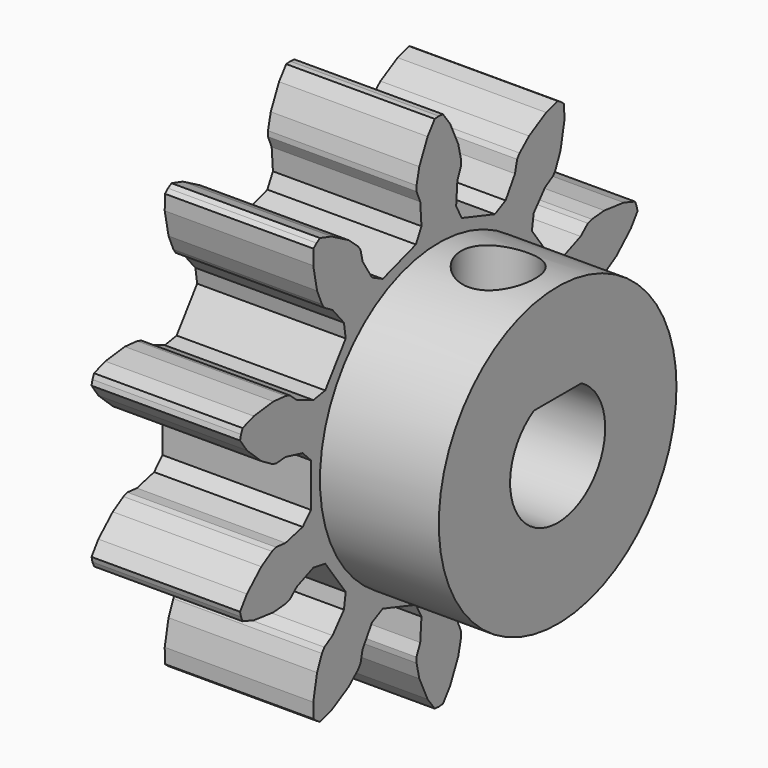
from build123d import *

# Parameters (mm, degrees)
F1_DEPTH = 6.35
F2_R     = 12.7
F3_DEPTH = 10.16
F4_R     = 3.175
F5_DEPTH = 25.4


with BuildPart() as f1:
    # F0 (on Right) → F1 (new body, symmetric)
    with BuildSketch(Plane.YZ):
        Polygon((-19.766479, 7.682501), (-20.970348, 7.270761), (-21.137222, 6.867889), (-21.239022, 6.443907), (-20.507079, 5.403166), (-18.967437, 3.973353), (-17.826292, 3.290891), (-17.401426, 3.145592), (-16.38603, 3.236523), (-14.548551, 2.778422), (-13.652969, 1.863522), (-13.652969, -1.863522), (-14.548551, -2.778422), (-16.38603, -3.236523), (-17.401426, -3.145592), (-17.826292, -3.290891), (-18.967437, -3.973353), (-20.507079, -5.403166), (-21.239022, -6.443907), (-21.137222, -6.867889), (-20.970348, -7.270761), (-19.766479, -7.682501), (-17.680457, -7.934278), (-16.356123, -7.815651), (-15.926974, -7.683478), (-15.158957, -7.013048), (-13.403146, -6.303635), (-12.140837, -6.517383), (-9.950129, -9.532641), (-10.136902, -10.799209), (-11.354177, -12.249875), (-12.229138, -12.773143), (-12.487432, -13.14043), (-13.00949, -14.36329), (-13.414667, -16.425013), (-13.395093, -17.697215), (-13.063533, -17.980389), (-12.691731, -18.208241), (-11.475737, -17.833716), (-9.640143, -16.811268), (-8.638455, -15.936889), (-8.368966, -15.577702), (-8.141672, -14.583904), (-7.138193, -12.977908), (-5.991322, -12.408883), (-2.446675, -13.560594), (-1.853305, -14.695084), (-1.985431, -16.584184), (-2.38572, -17.521775), (-2.378808, -17.970753), (-2.082368, -19.266927), (-1.19833, -21.173064), (-0.434711, -22.190787), (0, -22.225), (0.434711, -22.190787), (1.19833, -21.173064), (2.082368, -19.266927), (2.378808, -17.970753), (2.38572, -17.521775), (1.985431, -16.584184), (1.853305, -14.695084), (2.446675, -13.560594), (5.991322, -12.408883), (7.138193, -12.977908), (8.141672, -14.583904), (8.368966, -15.577702), (8.638455, -15.936889), (9.640143, -16.811268), (11.475737, -17.833716), (12.691731, -18.208241), (13.063533, -17.980389), (13.395093, -17.697215), (13.414667, -16.425013), (13.00949, -14.36329), (12.487432, -13.14043), (12.229138, -12.773143), (11.354177, -12.249875), (10.136902, -10.799209), (9.950129, -9.532641), (12.140837, -6.517383), (13.403146, -6.303635), (15.158957, -7.013048), (15.926974, -7.683478), (16.356123, -7.815651), (17.680457, -7.934278), (19.766479, -7.682501), (20.970348, -7.270761), (21.137222, -6.867889), (21.239022, -6.443907), (20.507079, -5.403166), (18.967437, -3.973353), (17.826292, -3.290891), (17.401426, -3.145592), (16.38603, -3.236523), (14.548551, -2.778422), (13.652969, -1.863522), (13.652969, 1.863522), (14.548551, 2.778422), (16.38603, 3.236523), (17.401426, 3.145592), (17.826292, 3.290891), (18.967437, 3.973353), (20.507079, 5.403166), (21.239022, 6.443907), (21.137222, 6.867889), (20.970348, 7.270761), (19.766479, 7.682501), (17.680457, 7.934278), (16.356123, 7.815651), (15.926974, 7.683478), (15.158957, 7.013048), (13.403146, 6.303635), (12.140837, 6.517383), (9.950129, 9.532641), (10.136902, 10.799209), (11.354177, 12.249875), (12.229138, 12.773143), (12.487432, 13.14043), (13.00949, 14.36329), (13.414667, 16.425013), (13.395093, 17.697215), (13.063533, 17.980389), (12.691731, 18.208241), (11.475737, 17.833716), (9.640143, 16.811268), (8.638455, 15.936889), (8.368966, 15.577702), (8.141672, 14.583904), (7.138193, 12.977908), (5.991322, 12.408883), (2.446675, 13.560594), (1.853305, 14.695084), (1.985431, 16.584184), (2.38572, 17.521775), (2.378808, 17.970753), (2.082368, 19.266927), (1.19833, 21.173064), (0.434711, 22.190787), (0, 22.225), (-0.434711, 22.190787), (-1.19833, 21.173064), (-2.082368, 19.266927), (-2.378808, 17.970753), (-2.38572, 17.521775), (-1.985431, 16.584184), (-1.853305, 14.695084), (-2.446675, 13.560594), (-5.991322, 12.408883), (-7.138193, 12.977908), (-8.141672, 14.583904), (-8.368966, 15.577702), (-8.638455, 15.936889), (-9.640143, 16.811268), (-11.475737, 17.833716), (-12.691731, 18.208241), (-13.063533, 17.980389), (-13.395093, 17.697215), (-13.414667, 16.425013), (-13.00949, 14.36329), (-12.487432, 13.14043), (-12.229138, 12.773143), (-11.354177, 12.249875), (-10.136902, 10.799209), (-9.950129, 9.532641), (-12.140837, 6.517383), (-13.403146, 6.303635), (-15.158957, 7.013048), (-15.926974, 7.683478), (-16.356123, 7.815651), (-17.680457, 7.934278), align=None)
        with BuildLine():
            ThreePointArc((2.546773, 4.395492), (0, -5.08), (-2.546773, 4.395492))
            Line((-2.546773, 4.395492), (2.546773, 4.395492))
        make_face(mode=Mode.SUBTRACT)
    extrude(amount=F1_DEPTH, both=True)

    # F2 (on face) → F3 (join)
    with BuildSketch(Plane.YZ.offset(6.35)):
        Circle(F2_R)
        with BuildLine():
            ThreePointArc((2.546773, 4.395492), (0, -5.08), (-2.546773, 4.395492))
            Line((-2.546773, 4.395492), (2.546773, 4.395492))
        make_face(mode=Mode.SUBTRACT)
    extrude(amount=F3_DEPTH)

    # F4 (on Top) → F5 (cut)
    with BuildSketch(Plane.XY):
        with Locations((11.43, 0)):
            Circle(F4_R)
    extrude(amount=F5_DEPTH, mode=Mode.SUBTRACT)


solid = f1.part
